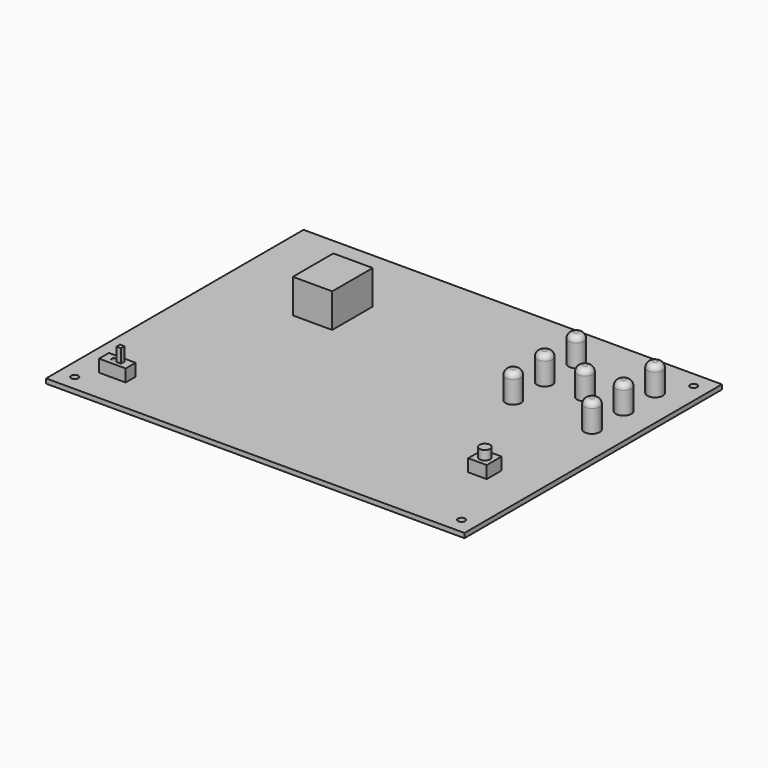
from build123d import *

# Parameters (mm, degrees)
F0_W      = 135.32
F0_H      = 104.09
F0_R      = 1.15
F1_DEPTH  = 1.5
F2_W      = 8.6
F2_H      = 4
F2_W_2    = 3.5
F2_H_2    = 1.4
F3_DEPTH  = 4
F4_DEPTH  = 3.9
F5_W      = 1.45
F5_H      = 1.4
F6_DEPTH  = 4.5
F2_W_3    = 6
F2_H_3    = 6
F2_R      = 1.735
F7_DEPTH  = 4
F8_DEPTH  = 7
F2_R_2    = 2.5
F9_DEPTH  = 9
F10_R     = 1.8
F2_W_4    = 12.7346146769
F2_H_4    = 16.3730749178
F11_DEPTH = 11


with BuildPart() as f1:
    # F0 (on Top) → F1 (new body)
    with BuildSketch(Plane.XY):
        with Locations((6.288124553, 10.8754571187)):
            Rectangle(F0_W, F0_H)
        with Locations((-56.221875447, -36.0195428813)):
            Circle(F0_R, mode=Mode.SUBTRACT)
        with Locations((68.898124553, -36.0195428813)):
            Circle(F0_R, mode=Mode.SUBTRACT)
        with Locations((68.898124553, 57.7704571187)):
            Circle(F0_R, mode=Mode.SUBTRACT)
    extrude(amount=F1_DEPTH)

    # F2 (on face) → F3 (join)
    with BuildSketch(Plane.XY.offset(1.5)):
        with Locations((-48.571875447, -28.3695428813)):
            Rectangle(F2_W, F2_H)
        with Locations((-48.571875447, -28.3695428813)):
            Rectangle(F2_W_2, F2_H_2, mode=Mode.SUBTRACT)
    extrude(amount=F3_DEPTH)

    # F4 (add): a face of the model
    f4_faces = [f1.faces().sort_by_distance(p)[0] for p in [
        (-48.571875447, -28.3695428813, 1.5),
    ]]
    extrude(f4_faces, amount=F4_DEPTH)

    # F5 (on face) → F6 (join)
    with BuildSketch(Plane.XY.offset(5.4)):
        with Locations((-47.546875447, -28.3695428813)):
            Rectangle(F5_W, F5_H)
    extrude(amount=F6_DEPTH)

    # F2 (on face) → F7 (join)
    with BuildSketch(Plane.XY.offset(1.5)):
        with Locations((56.948124553, -11.6695428813)):
            Rectangle(F2_W_3, F2_H_3)
        with Locations((56.948124553, -11.6695428813)):
            Circle(F2_R, mode=Mode.SUBTRACT)
    extrude(amount=F7_DEPTH)

    # F2 (on face) → F8 (join)
    with BuildSketch(Plane.XY.offset(1.5)):
        with Locations((56.948124553, -11.6695428813)):
            Circle(F2_R)
    extrude(amount=F8_DEPTH)

    # F2 (on face) → F9 (join)
    with BuildSketch(Plane.XY.offset(1.5)):
        with Locations((38.198124553, 23.2204571187)):
            Circle(F2_R_2)
        with Locations((51.198124553, 35.9704571187)):
            Circle(F2_R_2)
        with Locations((63.698124553, 35.9704571187)):
            Circle(F2_R_2)
        with Locations((63.698124553, 23.2204571187)):
            Circle(F2_R_2)
        with Locations((38.198124553, 35.9704571187)):
            Circle(F2_R_2)
        with Locations((63.698124553, 48.7204571187)):
            Circle(F2_R_2)
        with Locations((38.198124553, 48.7204571187)):
            Circle(F2_R_2)
    extrude(amount=F9_DEPTH)

    # F10
    f10_edges = [f1.edges().sort_by_distance(p)[0] for p in [
        (35.698125, 23.220457, 10.5),
        (35.698125, 35.970457, 10.5),
        (48.698125, 35.970457, 10.5),
        (35.698125, 48.720457, 10.5),
        (61.198125, 35.970457, 10.5),
        (61.198125, 48.720457, 10.5),
        (61.198125, 23.220457, 10.5),
    ]]
    fillet(f10_edges, radius=F10_R)

    # F2 (on face) → F11 (join)
    with BuildSketch(Plane.XY.offset(1.5)):
        with Locations((-27.8526208236, 32.8443583531)):
            Rectangle(F2_W_4, F2_H_4)
    extrude(amount=F11_DEPTH)


solid = f1.part
